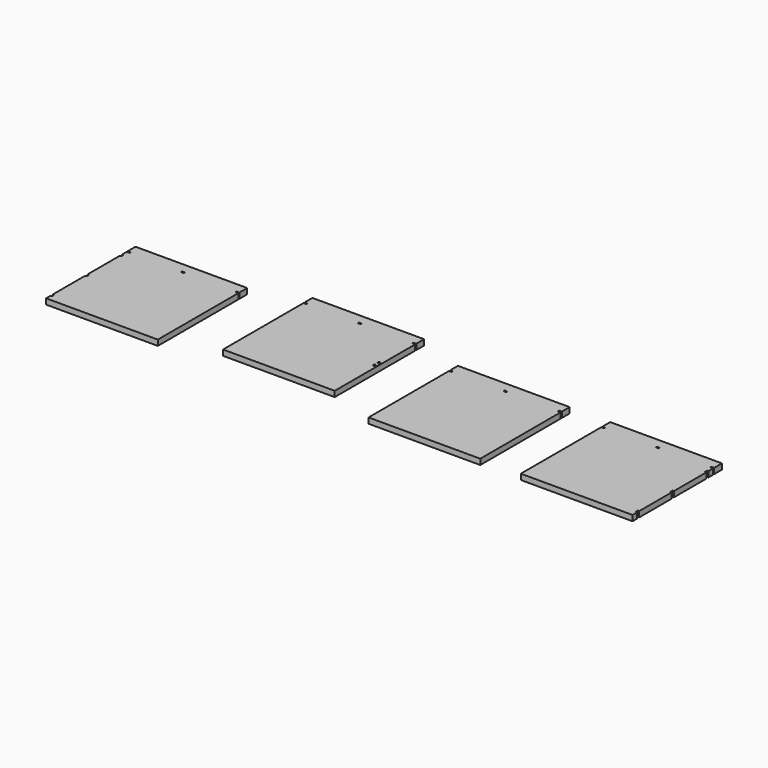
from build123d import *

# Parameters (mm, degrees)
F0_W     = 50
F0_H     = 25
F1_DEPTH = 100
F2_R     = 20
F2_W     = 50
F2_H     = 25
F3_DEPTH = 100
F4_W     = 50
F4_H     = 25
F5_DEPTH = 100


with BuildPart() as f1:
    # F0 (on Top) → F1 (new body)
    with BuildSketch(Plane.XY):
        Polygon((2000, 0), (0, 0), (0, -175), (50, -175), (50, -200), (0, -200), (0, -2000), (2000, -2000), (2000, -200), (1950, -200), (1950, -175), (2000, -175), align=None)
        with Locations((1000, -187.5)):
            Rectangle(F0_W, F0_H, mode=Mode.SUBTRACT)
    extrude(amount=F1_DEPTH)


with BuildPart() as f3:
    # F2 (on Top) → F3 (new body)
    with BuildSketch(Plane.XY):
        Polygon((-872.434735, 334.568512), (-2872.434735, 334.568512), (-2872.434735, 159.568512), (-2822.434735, 159.568512), (-2822.434735, 134.568512), (-2872.434735, 134.568512), (-2872.434735, -1665.431488), (-972.434735, -1665.431488), (-872.434735, -1665.431488), (-872.434735, 134.568512), (-922.434735, 134.568512), (-922.434735, 159.568512), (-872.434735, 159.568512), align=None)
        with Locations((-922.434735, -715.431488)):
            Circle(F2_R, mode=Mode.SUBTRACT)
        with Locations((-1872.434735, 147.068512)):
            Rectangle(F2_W, F2_H, mode=Mode.SUBTRACT)
        with Locations((-922.434735, -615.431488)):
            Circle(F2_R, mode=Mode.SUBTRACT)
    extrude(amount=F3_DEPTH)


with BuildPart() as f5:
    # F4 (on Top) → F5 (new body)
    with BuildSketch(Plane.XY):
        Polygon((-3821.403074, -200), (-3821.403074, -175), (-3771.403074, -175), (-3771.403074, 0), (-5771.403074, 0), (-5771.403074, -175), (-5721.403074, -175), (-5721.403074, -200), (-5771.403074, -200), (-5771.403074, -300), (-5746.403074, -300), (-5746.403074, -350), (-5771.403074, -350), (-5771.403074, -1075), (-5746.403074, -1075), (-5746.403074, -1125), (-5771.403074, -1125), (-5771.403074, -1850), (-5746.403074, -1850), (-5746.403074, -1900), (-5771.403074, -1900), (-5771.403074, -2000), (-3771.403074, -2000), (-3771.403074, -200), align=None)
        with Locations((-4771.403074, -187.5)):
            Rectangle(F4_W, F4_H, mode=Mode.SUBTRACT)
        Polygon((2725.295782, -200), (2725.295782, -2000), (4725.295782, -2000), (4725.295782, -1900), (4700.295782, -1900), (4700.295782, -1850), (4725.295782, -1850), (4725.295782, -1125), (4700.295782, -1125), (4700.295782, -1075), (4725.295782, -1075), (4725.295782, -350), (4700.295782, -350), (4700.295782, -300), (4725.295782, -300), (4725.295782, -200), (4675.295782, -200), (4675.295782, -175), (4725.295782, -175), (4725.295782, 0), (2725.295782, 0), (2725.295782, -175), (2775.295782, -175), (2775.295782, -200), align=None)
        with Locations((3725.295782, -187.5)):
            Rectangle(F4_W, F4_H, mode=Mode.SUBTRACT)
    extrude(amount=F5_DEPTH)


solid = Compound([f1.part, f3.part, f5.part])
